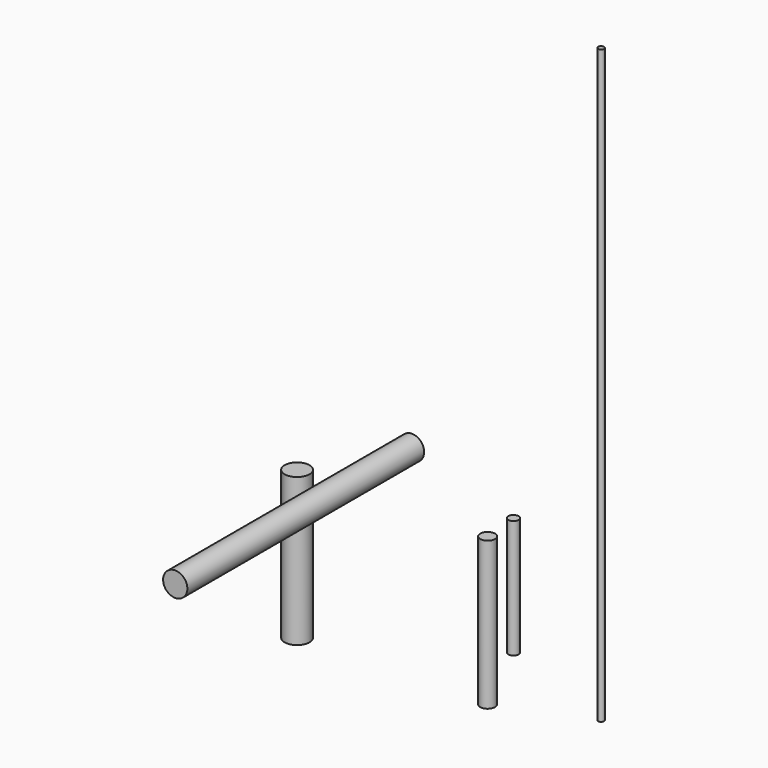
from build123d import *

# Parameters (mm, degrees)
F0_R     = 1.75
F1_DEPTH = 40
F2_R     = 2.5
F3_DEPTH = 50
F4_R     = 4.2
F5_DEPTH = 50
F6_R     = 1
F7_DEPTH = 200
F8_R     = 4.1
F9_DEPTH = 100


with BuildPart() as f1:
    # F0 (on Top) → F1 (new body)
    with BuildSketch(Plane.XY):
        Circle(F0_R)
    extrude(amount=F1_DEPTH)


with BuildPart() as f3:
    # F2 (on Top) → F3 (new body)
    with BuildSketch(Plane.XY):
        with Locations((13.221684, -27.407531)):
            Circle(F2_R)
    extrude(amount=F3_DEPTH)


with BuildPart() as f5:
    # F4 (on Top) → F5 (new body)
    with BuildSketch(Plane.XY):
        with Locations((-49.826756, -29.098148)):
            Circle(F4_R)
    extrude(amount=F5_DEPTH)


with BuildPart() as f7:
    # F6 (on Top) → F7 (new body)
    with BuildSketch(Plane.XY):
        with Locations((42.224582, -15.73967)):
            Circle(F6_R)
    extrude(amount=F7_DEPTH)


with BuildPart() as f9:
    # F8 (on Front) → F9 (new body)
    with BuildSketch(Plane.XZ):
        with Locations((-34.264646, 49.833748)):
            Circle(F8_R)
    extrude(amount=F9_DEPTH)


solid = Compound([f1.part, f3.part, f5.part, f7.part, f9.part])
